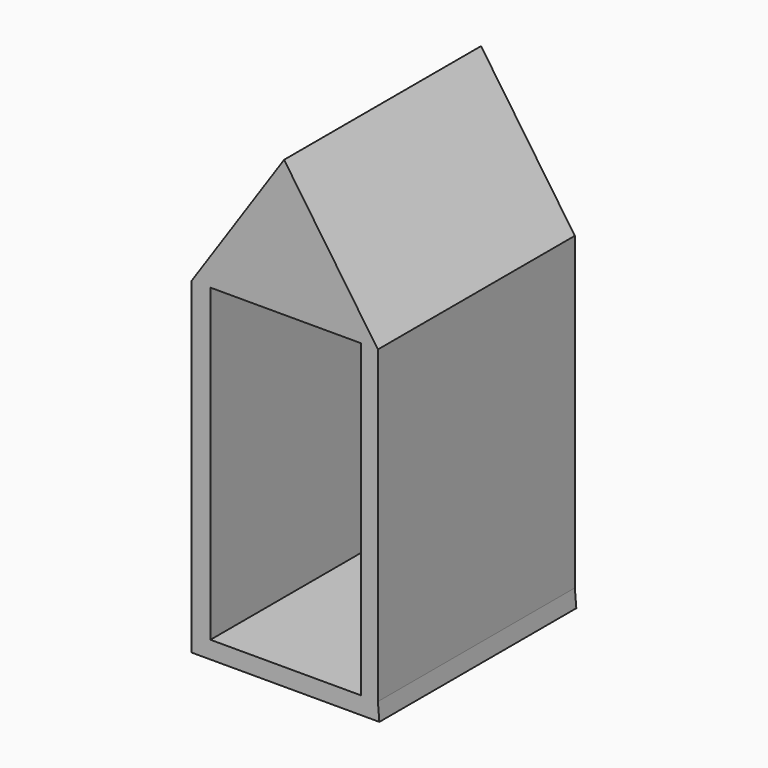
from build123d import *

# Parameters (mm, degrees)
F0_W     = 3.8772569518
F0_H     = 63.9679611865
F0_W_2   = 3.5099290236
F1_DEPTH = 50.8


with BuildPart() as f1:
    # F0 (on Front) → F1 (new body)
    with BuildSketch(Plane.XZ):
        with Locations((-14.058026042, -9.1675467221)):
            Rectangle(F0_W, F0_H)
        Polygon((3.0713511857, 50.9821392888), (-15.9966545179, 22.8164338711), (-12.1193975661, 22.8164338711), (18.9136061812, 22.8164338711), (22.4235352048, 22.8164338711), align=None)
        Polygon((-12.1193975661, -41.1515273154), (-15.9966545179, -41.1515273154), (-15.9966545179, -44.7443164885), (22.7297032942, -44.7443164885), (22.4235352048, -41.1515273154), (18.9136061812, -41.1515273154), align=None)
        with Locations((20.668570693, -9.1675467221)):
            Rectangle(F0_W_2, F0_H)
    extrude(amount=F1_DEPTH)


solid = f1.part
